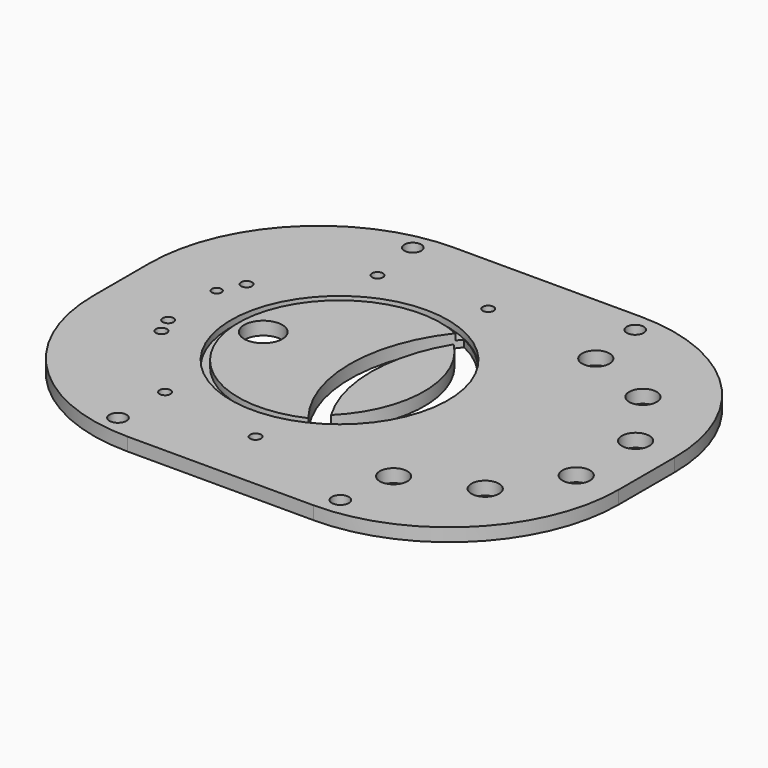
from build123d import *

# Parameters (mm, degrees)
CYLINDER180_R             = 6.5
CYLINDER180_DEPTH         = 10
ARRAY003_COUNT            = 6
ARRAY003_ANGLE            = 170
CYLINDER178_R             = 2.579687
CYLINDER178_DEPTH         = 19.5
ARRAY002_COUNT            = 6
ARRAY002_ANGLE            = 208
ARRAY002_PLACEMENT_ANGLE  = 109
CYLINDER185_R             = 47.75
CYLINDER185_DEPTH         = 3
CYLINDER179_R             = 51.25
CYLINDER179_DEPTH         = 3
CYLINDER177_R             = 2.28
CYLINDER177_DEPTH         = 29
CYLINDER181_R             = 2.58
CYLINDER181_DEPTH         = 29
CYLINDER183_R             = 9
CYLINDER183_DEPTH         = 21
CYLINDER182_R             = 4
CYLINDER182_DEPTH         = 10
CYLINDER184_R             = 4
CYLINDER184_DEPTH         = 10
CYLINDER187_R             = 4
CYLINDER187_DEPTH         = 10
CYLINDER175_R             = 4
CYLINDER175_DEPTH         = 10
CYLINDER186_R             = 51
CYLINDER186_DEPTH         = 20
CYLINDER176_R             = 70.0875
CYLINDER176_DEPTH         = 20
BOX002_W                  = 193
BOX002_H                  = 248
BOX002_DEPTH              = 6.2
FILLET001_R               = 80
CUT024_PLACEMENT_ANGLE    = 180
CYLINDER174_R             = 51
CYLINDER174_DEPTH         = 20
CYLINDER173_R             = 70.0875
CYLINDER173_DEPTH         = 6.2
FUSION003_PLACEMENT_ANGLE = 90


with BuildPart() as array003:
    # Cylinder180 → Cylinder180 (new body)
    with BuildSketch(Plane(origin=(60, 181, 0), x_dir=(1, 0, 0), z_dir=(0, 0, 1))):
        Circle(CYLINDER180_R)
    extrude(amount=CYLINDER180_DEPTH)

    # Array003: Array003 ×6 about axis
    array003_axis = Axis((0, 176, 0), (0, 0, 1))


with BuildPart() as array003_1:
    add(array003.part)
    for i in range(1, ARRAY003_COUNT):
        add(array003.part.rotate(array003_axis, i * ARRAY003_ANGLE / (ARRAY003_COUNT - 1)))


with BuildPart() as array003_2:
    # Array003 placement: moved
    add(array003_1.part.moved(Location((0, -5, 0))))


with BuildPart() as obj1:
    # Cylinder178 → Cylinder178 (new body)
    with BuildSketch(Plane(origin=(36.025, 58.5, -4), x_dir=(1, 0, 0), z_dir=(0, 0, 1))):
        Circle(CYLINDER178_R)
    extrude(amount=CYLINDER178_DEPTH)

    # Array002: obj1 ×6 about axis
    array002_axis = Axis((0, 0, 0), (0, 0, 1))


with BuildPart() as obj1_1:
    add(obj1.part)
    for i in range(1, ARRAY002_COUNT):
        add(obj1.part.rotate(array002_axis, i * ARRAY002_ANGLE / (ARRAY002_COUNT - 1)))


with BuildPart() as obj1_2:
    # Array002 placement: moved
    add(obj1_1.part.moved(Location((0, 102, 0))).rotate(Axis((0, 102, 0), (0, 0, 1)), ARRAY002_PLACEMENT_ANGLE))


with BuildPart() as flange004:
    # Cylinder185 → Cylinder185 (new body)
    with BuildSketch(Plane(origin=(0, 68, 0), x_dir=(1, 0, 0), z_dir=(0, 0, 1))):
        Circle(CYLINDER185_R)
    extrude(amount=CYLINDER185_DEPTH)


with BuildPart() as centeringringgroove001:
    # Cylinder179 → Cylinder179 (new body)
    with BuildSketch(Plane(origin=(0, 68, 0), x_dir=(1, 0, 0), z_dir=(0, 0, 1))):
        Circle(CYLINDER179_R)
    extrude(amount=CYLINDER179_DEPTH)

    # Cut023: cut Flange004
    add(flange004.part, mode=Mode.SUBTRACT)


with BuildPart() as centeringringgroove001_1:
    # Cut023 placement: moved
    add(centeringringgroove001.part.moved(Location((0, 35, 0))))


with BuildPart() as cylinder176:
    # Cylinder177 → Cylinder177 (new body)
    with BuildSketch(Plane(origin=(15, 33, -9), x_dir=(1, 0, 0), z_dir=(0, 0, 1))):
        Circle(CYLINDER177_R)
    extrude(amount=CYLINDER177_DEPTH)


with BuildPart() as cylinder178:
    # Cylinder181 → Cylinder181 (new body)
    with BuildSketch(Plane(origin=(-14.5, 33.7, -7), x_dir=(1, 0, 0), z_dir=(0, 0, 1))):
        Circle(CYLINDER181_R)
    extrude(amount=CYLINDER181_DEPTH)


with BuildPart() as cylinder180:
    # Cylinder183 → Cylinder183 (new body)
    with BuildSketch(Plane(origin=(0, 67, -4), x_dir=(1, 0, 0), z_dir=(0, 0, 1))):
        Circle(CYLINDER183_R)
    extrude(amount=CYLINDER183_DEPTH)


with BuildPart() as cylinder179:
    # Cylinder182 → Cylinder182 (new body)
    with BuildSketch(Plane(origin=(-87, 173, 0), x_dir=(1, 0, 0), z_dir=(0, 0, 1))):
        Circle(CYLINDER182_R)
    extrude(amount=CYLINDER182_DEPTH)


with BuildPart() as cylinder181:
    # Cylinder184 → Cylinder184 (new body)
    with BuildSketch(Plane(origin=(87, 68, 0), x_dir=(1, 0, 0), z_dir=(0, 0, 1))):
        Circle(CYLINDER184_R)
    extrude(amount=CYLINDER184_DEPTH)


with BuildPart() as cylinder187:
    # Cylinder187 → Cylinder187 (new body)
    with BuildSketch(Plane(origin=(-87, 68, 0), x_dir=(1, 0, 0), z_dir=(0, 0, 1))):
        Circle(CYLINDER187_R)
    extrude(amount=CYLINDER187_DEPTH)


with BuildPart() as cylinder175:
    # Cylinder175 → Cylinder175 (new body)
    with BuildSketch(Plane(origin=(87, 173, 0), x_dir=(1, 0, 0), z_dir=(0, 0, 1))):
        Circle(CYLINDER175_R)
    extrude(amount=CYLINDER175_DEPTH)


with BuildPart() as cylinder186:
    # Cylinder186 → Cylinder186 (new body)
    with BuildSketch(Plane(origin=(0, 74, 0), x_dir=(1, 0, 0), z_dir=(0, 0, 1))):
        Circle(CYLINDER186_R)
    extrude(amount=CYLINDER186_DEPTH)


with BuildPart() as fusion004:
    # Cylinder176 → Cylinder176 (new body)
    with BuildSketch(Plane(origin=(0, 149, 0), x_dir=(1, 0, 0), z_dir=(0, 0, 1))):
        Circle(CYLINDER176_R)
    extrude(amount=CYLINDER176_DEPTH)

    # Common002: intersect Cylinder186
    add(cylinder186.part, mode=Mode.INTERSECT)


with BuildPart() as fusion004_1:
    # Common002 placement: moved
    add(fusion004.part.moved(Location((0, 29, 0))))

    # Fusion005: union obj1, CenteringRingGroove001, Cylinder176, Cylinder178, Cylinder180, Cylinder179, Cylinder181, Cylinder187, Cylinder175
    add(obj1_2.part)
    add(centeringringgroove001_1.part)
    add(cylinder176.part)
    add(cylinder178.part)
    add(cylinder180.part)
    add(cylinder179.part)
    add(cylinder181.part)
    add(cylinder187.part)
    add(cylinder175.part)

    # Fusion004: union Array003
    add(array003_2.part)


with BuildPart() as cut024:
    # Box002 → Box002 (new body)
    with BuildSketch(Plane(origin=(-96.5, 0, 0), x_dir=(1, 0, 0), z_dir=(0, 0, 1))):
        with Locations((96.5, 124)):
            Rectangle(BOX002_W, BOX002_H)
    extrude(amount=BOX002_DEPTH)

    # Fillet001
    fillet001_edges = [cut024.edges().sort_by_distance(p)[0] for p in [
        (-96.5, 0, 3.1),
        (-96.5, 248, 3.1),
        (96.5, 0, 3.1),
        (96.5, 248, 3.1),
    ]]
    fillet(fillet001_edges, radius=FILLET001_R)

    # Cut024: cut Fusion004
    add(fusion004_1.part, mode=Mode.SUBTRACT)


with BuildPart() as cut024_1:
    # Cut024 placement: moved
    add(cut024.part.moved(Location((0, 0, 6.2))).rotate(Axis((0, 0, 6.2), (0, 1, 0)), CUT024_PLACEMENT_ANGLE))


with BuildPart() as cylinder174:
    # Cylinder174 → Cylinder174 (new body)
    with BuildSketch(Plane(origin=(0, 63, 0), x_dir=(1, 0, 0), z_dir=(0, 0, 1))):
        Circle(CYLINDER174_R)
    extrude(amount=CYLINDER174_DEPTH)


with BuildPart() as model_fusion003:
    # Cylinder173 → Cylinder173 (new body)
    with BuildSketch(Plane(origin=(0, 159, 0), x_dir=(1, 0, 0), z_dir=(0, 0, 1))):
        Circle(CYLINDER173_R)
    extrude(amount=CYLINDER173_DEPTH)

    # Common003: intersect Cylinder174
    add(cylinder174.part, mode=Mode.INTERSECT)


with BuildPart() as model_fusion003_1:
    # Common003 placement: moved
    add(model_fusion003.part.moved(Location((0, 29, 0))))

    # Fusion003: union Cut024
    add(cut024_1.part)


with BuildPart() as model_fusion003_2:
    # Fusion003 placement: moved
    add(model_fusion003_1.part.rotate(Axis((0, 0, 0), (0, 0, -1)), FUSION003_PLACEMENT_ANGLE))


solid = model_fusion003_2.part
